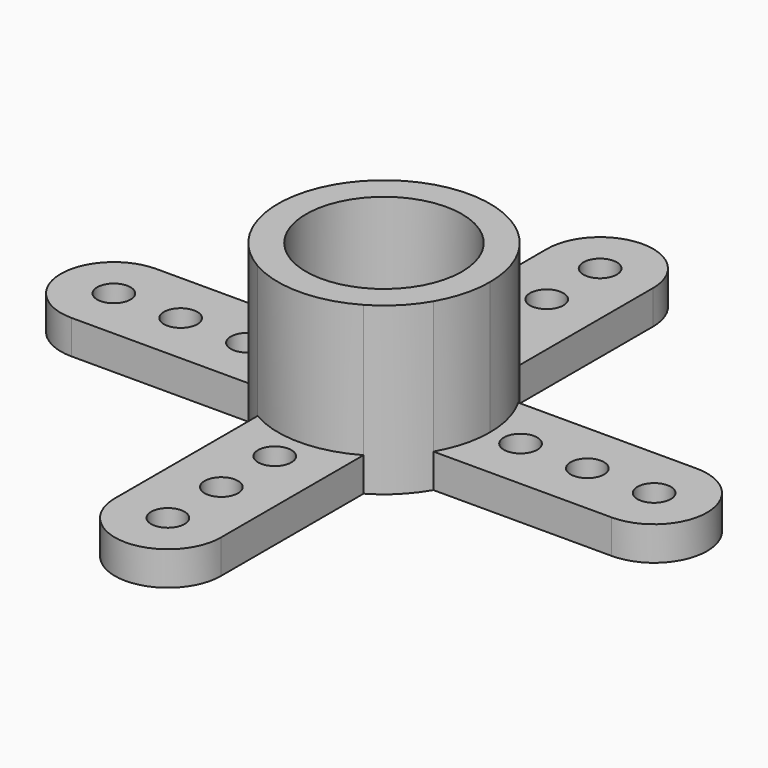
from build123d import *

# Parameters (mm, degrees)
F0_R     = 0.5
F1_DEPTH = 1.016
F2_R     = 2.33426
F3_DEPTH = 3.9624


with BuildPart() as f1:
    # F0 (on Top) → F1 (new body)
    with BuildSketch(Plane.XY):
        with BuildLine():
            Line((1.5875, 2.749631), (1.5875, 8.0899))
            ThreePointArc((1.5875, 8.0899), (0, 9.6774), (-1.5875, 8.0899))
            Line((-1.5875, 8.0899), (-1.5875, 2.749631))
            ThreePointArc((-1.5875, 2.749631), (-2.245064, 2.245064), (-2.749631, 1.5875))
            Line((-2.749631, 1.5875), (-8.0899, 1.5875))
            ThreePointArc((-8.0899, 1.5875), (-9.6774, 0), (-8.0899, -1.5875))
            Line((-8.0899, -1.5875), (-2.749631, -1.5875))
            ThreePointArc((-2.749631, -1.5875), (-2.245064, -2.245064), (-1.5875, -2.749631))
            Line((-1.5875, -2.749631), (-1.5875, -8.0899))
            ThreePointArc((-1.5875, -8.0899), (0, -9.6774), (1.5875, -8.0899))
            Line((1.5875, -8.0899), (1.5875, -2.749631))
            ThreePointArc((1.5875, -2.749631), (2.245064, -2.245064), (2.749631, -1.5875))
            Line((2.749631, -1.5875), (8.0899, -1.5875))
            ThreePointArc((8.0899, -1.5875), (9.6774, 0), (8.0899, 1.5875))
            Line((8.0899, 1.5875), (2.749631, 1.5875))
            ThreePointArc((2.749631, 1.5875), (2.245064, 2.245064), (1.5875, 2.749631))
        make_face()
        with Locations((0, -8.0899)):
            Circle(F0_R, mode=Mode.SUBTRACT)
        with Locations((0, -6.0899)):
            Circle(F0_R, mode=Mode.SUBTRACT)
        with Locations((-8.0899, 0)):
            Circle(F0_R, mode=Mode.SUBTRACT)
        with Locations((-6.0899, 0)):
            Circle(F0_R, mode=Mode.SUBTRACT)
        with Locations((0, -4.0899)):
            Circle(F0_R, mode=Mode.SUBTRACT)
        with Locations((-4.0899, 0)):
            Circle(F0_R, mode=Mode.SUBTRACT)
        with Locations((4.0899, 0)):
            Circle(F0_R, mode=Mode.SUBTRACT)
        with Locations((6.0899, 0)):
            Circle(F0_R, mode=Mode.SUBTRACT)
        with Locations((8.0899, 0)):
            Circle(F0_R, mode=Mode.SUBTRACT)
        with Locations((0, 4.0899)):
            Circle(F0_R, mode=Mode.SUBTRACT)
        with Locations((0, 6.0899)):
            Circle(F0_R, mode=Mode.SUBTRACT)
        with Locations((0, 8.0899)):
            Circle(F0_R, mode=Mode.SUBTRACT)
    extrude(amount=F1_DEPTH)

    # F2 (on face) → F3 (join)
    with BuildSketch(Plane.XY.offset(1.016)):
        with BuildLine():
            ThreePointArc((2.749631, -1.5875), (3.066814, -0.82175), (3.175, 0))
            ThreePointArc((3.175, 0), (3.066814, 0.82175), (2.749631, 1.5875))
            ThreePointArc((2.749631, 1.5875), (2.245064, 2.245064), (1.5875, 2.749631))
            ThreePointArc((1.5875, 2.749631), (0, 3.175), (-1.5875, 2.749631))
            ThreePointArc((-1.5875, 2.749631), (-2.245064, 2.245064), (-2.749631, 1.5875))
            ThreePointArc((-2.749631, 1.5875), (-3.175, 0), (-2.749631, -1.5875))
            ThreePointArc((-2.749631, -1.5875), (-2.245064, -2.245064), (-1.5875, -2.749631))
            ThreePointArc((-1.5875, -2.749631), (0, -3.175), (1.5875, -2.749631))
            ThreePointArc((1.5875, -2.749631), (2.245064, -2.245064), (2.749631, -1.5875))
        make_face()
        Circle(F2_R, mode=Mode.SUBTRACT)
    extrude(amount=F3_DEPTH)


solid = f1.part
